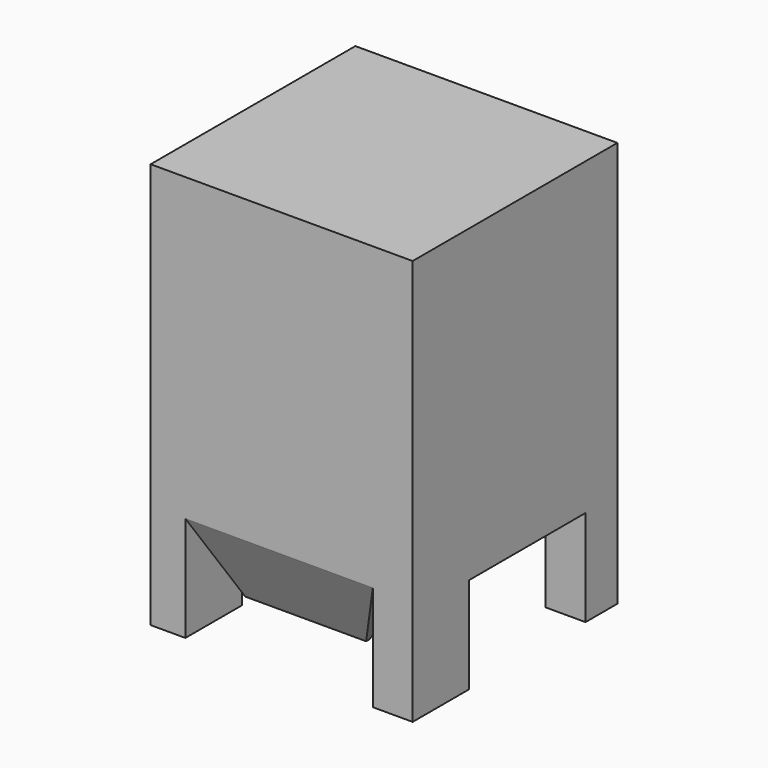
from build123d import *

# Parameters (mm, degrees)
F0_W      = 1260
F0_H      = 1230
F1_DEPTH  = 1990
F3_DEPTH  = 25
F4_DEPTH  = 25
F5_W      = 919.1210865974
F5_H      = 1030.3928852081
F6_DEPTH  = 3660
F7_DEPTH  = 25
F8_W      = 712.8995805979
F8_H      = 942.8355097771
F9_DEPTH  = 3440
F10_W     = 919.1210865974
F10_H     = 347.6484620571
F11_DEPTH = 350
F11_TAPER = 25


with BuildPart() as f1:
    # F0 (on Top) → F1 (new body)
    with BuildSketch(Plane.XY):
        Rectangle(F0_W, F0_H)
    extrude(amount=F1_DEPTH)

    # F2 (on face) → F3 (cut)
    with BuildSketch(Plane(origin=(0, 615, 0), x_dir=(-1, 0, 0), z_dir=(0, 1, 0))):
        with BuildLine():
            add(Edge.make_bspline(
                [(-233.063429594, 1101.6209125519), (-392.2844546987, 1101.6209125519), (-312.6739421464, 887.6741528511), (-233.063429594, 673.7273931503), (-153.4529170417, 887.6741528511), (-73.8424044893, 1101.6209125519), (-233.063429594, 1101.6209125519)],
                knots=[0, 0, 0, 2.0943951024, 2.0943951024, 4.1887902048, 4.1887902048, 6.2831853072, 6.2831853072, 6.2831853072], degree=2, weights=[1, 0.5, 1, 0.5, 1, 0.5, 1]))
        make_face()
        with BuildLine():
            add(Edge.make_bspline(
                [(225.3940701485, 1111.8088960648), (65.7797781257, 1111.8088960648), (145.5869241371, 882.5801610947), (225.3940701485, 653.3514261246), (305.2012161599, 882.5801610947), (385.0083621713, 1111.8088960648), (225.3940701485, 1111.8088960648)],
                knots=[0, 0, 0, 2.0943951024, 2.0943951024, 4.1887902048, 4.1887902048, 6.2831853072, 6.2831853072, 6.2831853072], degree=2, weights=[1, 0.5, 1, 0.5, 1, 0.5, 1]))
        make_face()
        with BuildLine():
            Line((-338.4010910988, 1285.003900528), (338.4010910988, 1285.003900528))
            ThreePointArc((338.4010910988, 1285.003900528), (373.7564301581, 1299.6485614686), (388.4010910988, 1335.003900528))
            Line((388.4010910988, 1335.003900528), (388.4010910988, 1744.4011688232))
            ThreePointArc((388.4010910988, 1744.4011688232), (373.7564301581, 1779.7565078826), (338.4010910988, 1794.4011688232))
            Line((338.4010910988, 1794.4011688232), (-338.4010910988, 1794.4011688232))
            ThreePointArc((-338.4010910988, 1794.4011688232), (-373.7564301581, 1779.7565078826), (-388.4010910988, 1744.4011688232))
            Line((-388.4010910988, 1744.4011688232), (-388.4010910988, 1335.003900528))
            ThreePointArc((-388.4010910988, 1335.003900528), (-373.7564301581, 1299.6485614686), (-338.4010910988, 1285.003900528))
        make_face()
    extrude(amount=-F3_DEPTH, mode=Mode.SUBTRACT)

    # F4 (add): a face of the model
    f4_faces = [f1.faces().sort_by_distance(p)[0] for p in [
        (0.1841211697, 615, 890.8357911974),
    ]]
    extrude(f4_faces, amount=F4_DEPTH)

    # F5 (on face) → F6 (cut)
    with BuildSketch(Plane(origin=(0, 640, 0), x_dir=(-1, 0, 0), z_dir=(0, 1, 0))):
        Rectangle(F5_W, F5_H)
    extrude(amount=-F6_DEPTH, mode=Mode.SUBTRACT)

    # F7 (add): a face of the model
    f7_faces = [f1.faces().sort_by_distance(p)[0] for p in [
        (630, 12.5, 995),
    ]]
    extrude(f7_faces, amount=F7_DEPTH)

    # F8 (on face) → F9 (cut)
    with BuildSketch(Plane.YZ.offset(655)):
        with Locations((88.3218422532, 0)):
            Rectangle(F8_W, F8_H)
    extrude(amount=-F9_DEPTH, mode=Mode.SUBTRACT)

    # F10 (on face) → F11 (join)
    with BuildSketch(Plane(origin=(0, 0, 515.1964426041), x_dir=(1, 0, 0), z_dir=(0, 0, -1))):
        with Locations((0, 441.1757689714)):
            Rectangle(F10_W, F10_H)
    extrude(amount=F11_DEPTH, taper=F11_TAPER)


solid = f1.part
